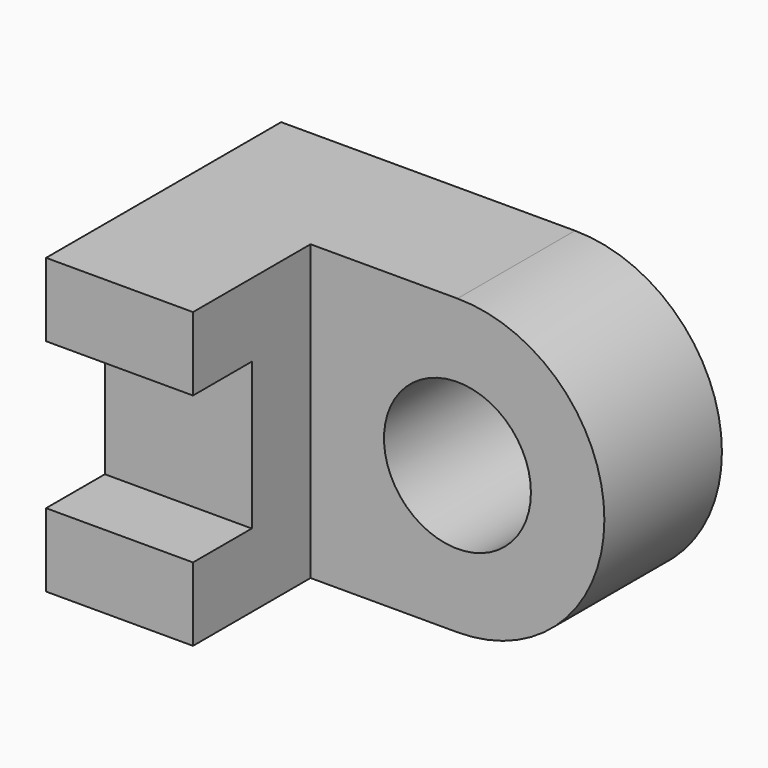
from build123d import *

# Parameters (mm, degrees)
F0_R     = 6.35
F1_DEPTH = 12.7
F2_W     = 12.7
F2_H     = 25.4
F3_DEPTH = 25.4
F4_W     = 12.7
F4_H     = 12.7
F5_DEPTH = 6.35


with BuildPart() as f1:
    # F0 (on Front) → F1 (new body)
    with BuildSketch(Plane.XZ):
        with BuildLine():
            Line((0, 25.4), (0, 0))
            Line((0, 0), (12.7, 0))
            ThreePointArc((12.7, 0), (25.4, 12.7), (12.7, 25.4))
            Line((12.7, 25.4), (0, 25.4))
        make_face()
        with Locations((12.7, 12.7)):
            Circle(F0_R, mode=Mode.SUBTRACT)
    extrude(amount=F1_DEPTH)

    # F2 (on Top) → F3 (join)
    with BuildSketch(Plane.XY):
        with Locations((-6.35, -12.7)):
            Rectangle(F2_W, F2_H)
    extrude(amount=F3_DEPTH)

    # F4 (on face) → F5 (cut)
    with BuildSketch(Plane.XZ.offset(25.4)):
        with Locations((-6.35, 12.7)):
            Rectangle(F4_W, F4_H)
    extrude(amount=-F5_DEPTH, mode=Mode.SUBTRACT)


solid = f1.part
